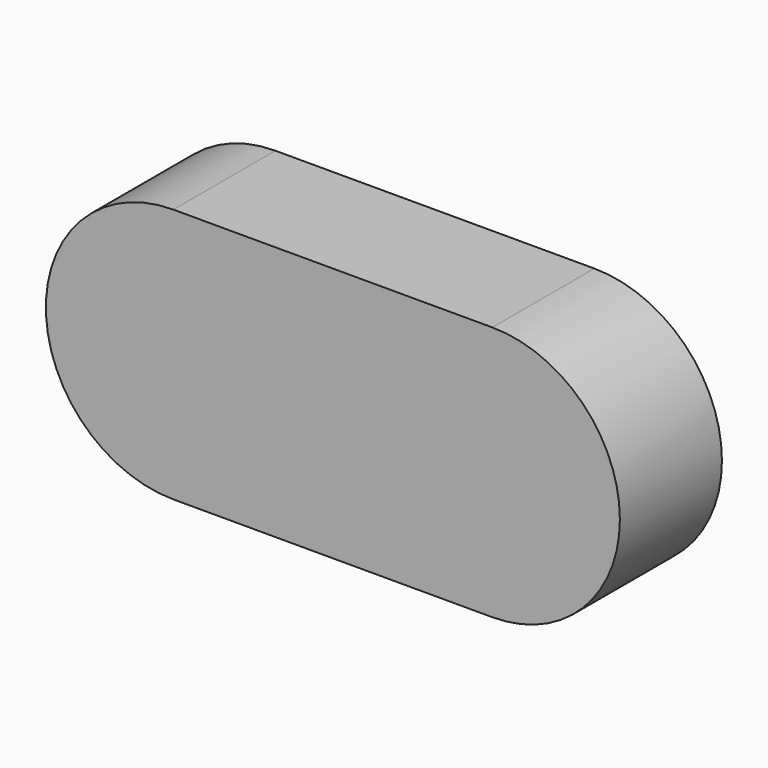
from build123d import *

# Parameters (mm, degrees)
F1_DEPTH = 10


with BuildPart() as f1:
    # F0 (on Front) → F1 (new body, symmetric)
    with BuildSketch(Plane.XZ):
        with BuildLine():
            ThreePointArc((-5, 0), (-10.8578643763, 14.1421356237), (-25, 20))
            Line((-25, 20), (-25, -20))
            ThreePointArc((-25, -20), (-10.8578643763, -14.1421356237), (-5, 0))
        make_face()
        with BuildLine():
            Line((25, 20), (-25, 20))
            ThreePointArc((-25, 20), (-10.8578643763, 14.1421356237), (-5, 0))
            ThreePointArc((-5, 0), (-10.8578643763, -14.1421356237), (-25, -20))
            Line((-25, -20), (25, -20))
            ThreePointArc((25, -20), (5, 0), (25, 20))
        make_face()
        with BuildLine():
            Line((-25, -20), (-25, 20))
            ThreePointArc((-25, 20), (-45, 0), (-25, -20))
        make_face()
        with BuildLine():
            ThreePointArc((45, 0), (39.1421356237, 14.1421356237), (25, 20))
            Line((25, 20), (25, -20))
            ThreePointArc((25, -20), (39.1421356237, -14.1421356237), (45, 0))
        make_face()
        with BuildLine():
            Line((25, -20), (25, 20))
            ThreePointArc((25, 20), (5, 0), (25, -20))
        make_face()
    extrude(amount=F1_DEPTH, both=True)


solid = f1.part
